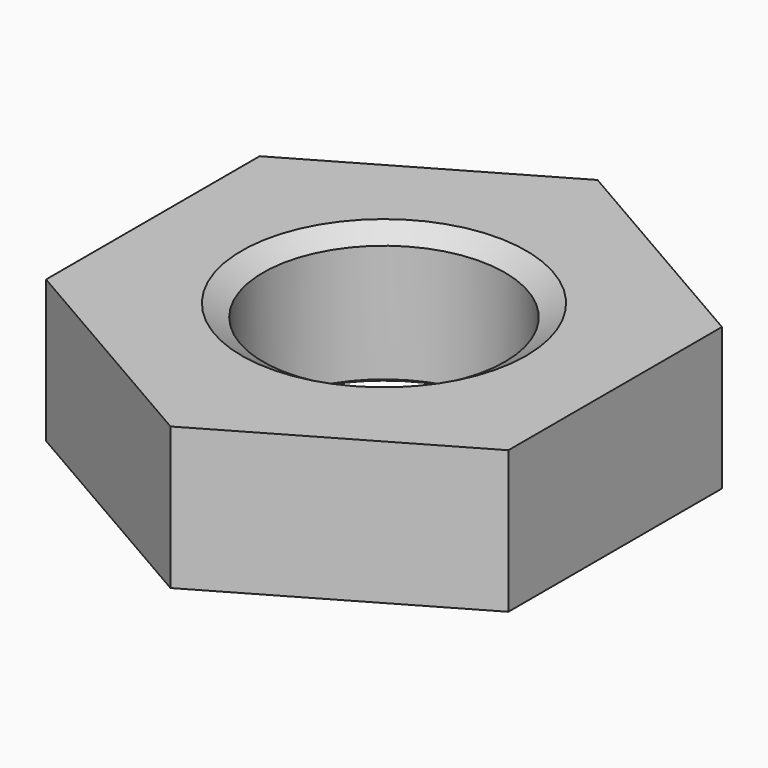
from build123d import *

# Parameters (mm, degrees)
SKETCH001_R  = 8
POCKET_DEPTH = 4


with BuildPart() as part:
    # Sketch → Revolution (revolve)
    with BuildSketch(Plane.XZ):
        Polygon((4, 0), (3.4, 0.34641), (3.4, 3.65359), (4, 4), (8, 4), (8, 0), align=None)
    revolve(axis=Axis((0, 0, 0), (0, 0, 1)))

    # Sketch001 → Pocket (cut)
    with BuildSketch(Plane(origin=(0, 0, 4), x_dir=(-1, 0, 0), z_dir=(0, 0, 1))):
        Circle(SKETCH001_R)
        Polygon((-6.5, 3.752777), (-6.5, -3.752777), (0, -7.505553), (6.5, -3.752777), (6.5, 3.752777), (0, 7.505553), align=None, mode=Mode.SUBTRACT)
    extrude(amount=-POCKET_DEPTH, mode=Mode.SUBTRACT)


solid = part.part
